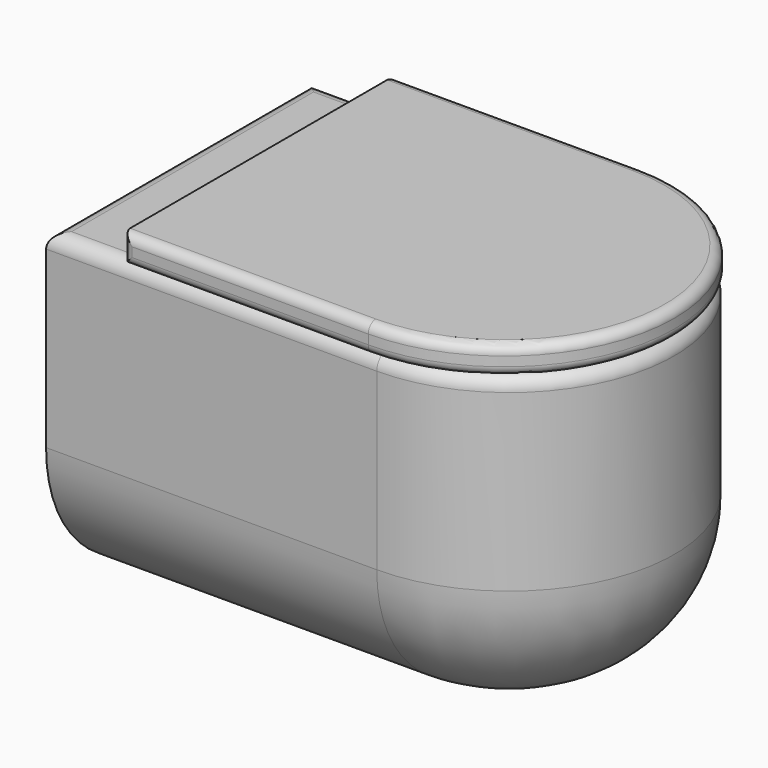
from build123d import *

# Parameters (mm, degrees)
PAD014_DEPTH            = 350
FILLET013_R             = 150
FILLET014_R             = 15
PAD015_DEPTH            = 30
FILLET015_R             = 10
BODY010_PLACEMENT_ANGLE = 270


with BuildPart() as part:
    # Sketch194 → Pad014 (new body)
    with BuildSketch(Plane.XY):
        with BuildLine():
            Line((0, 350), (0, 0))
            Line((0, 0), (350, 0))
            Line((350, 0), (350, 350))
            ThreePointArc((350, 350), (175, 525), (0, 350))
        make_face()
    extrude(amount=PAD014_DEPTH)

    # Fillet013
    fillet013_edges = [part.edges().sort_by_distance(p)[0] for p in [
        (350, 175, 0),
        (175, 525, 0),
        (0, 175, 0),
    ]]
    fillet(fillet013_edges, radius=FILLET013_R)

    # Fillet014
    fillet014_edges = [part.edges().sort_by_distance(p)[0] for p in [
        (0, 175, 350),
        (175, 0, 350),
        (350, 175, 350),
        (175, 525, 350),
    ]]
    fillet(fillet014_edges, radius=FILLET014_R)

    # Sketch195 (on Face4 of Fillet013) → Pad015 (join)
    with BuildSketch(Plane.XY.offset(350)):
        with BuildLine():
            Line((-5, 85), (355, 85))
            Line((355, 85), (355, 345))
            ThreePointArc((355, 345), (175, 525), (-5, 345))
            Line((-5, 85), (-5, 345))
        make_face()
    extrude(amount=PAD015_DEPTH)

    # Fillet015
    fillet015_edges = [part.edges().sort_by_distance(p)[0] for p in [
        (355, 345, 365),
        (-5, 345, 365),
        (175, 525, 350),
        (175, 525, 380),
        (-5, 85, 365),
        (-5, 215, 350),
        (-5, 215, 380),
        (355, 85, 365),
        (355, 215, 350),
        (355, 215, 380),
    ]]
    fillet(fillet015_edges, radius=FILLET015_R)


with BuildPart() as part_1:
    # Body010 placement: moved
    add(part.part.moved(Location((1727, 3999, 0))).rotate(Axis((1727, 3999, 0), (0, 0, 1)), BODY010_PLACEMENT_ANGLE))


solid = part_1.part
